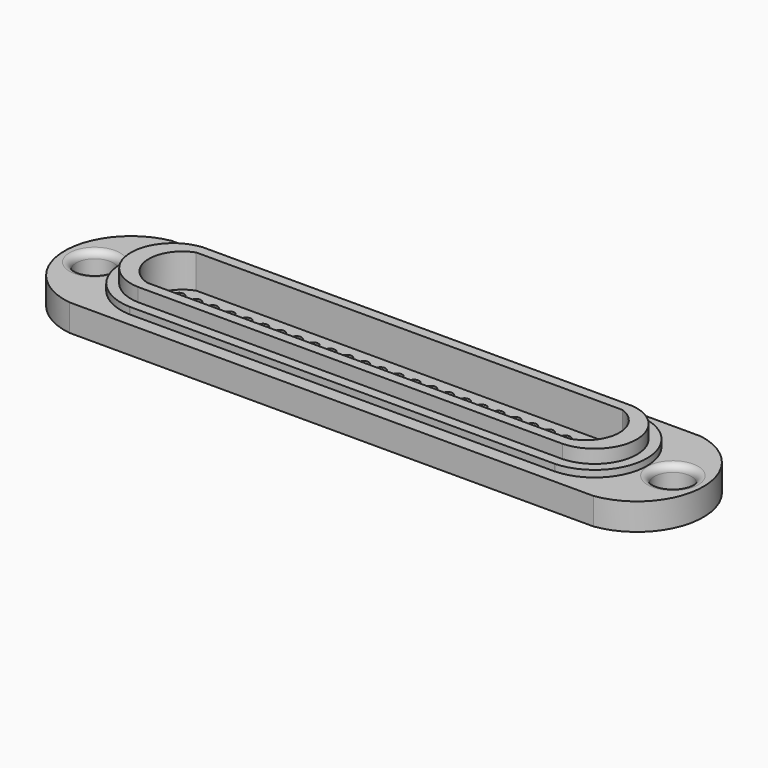
from build123d import *

# Parameters (mm, degrees)
F0_R     = 2.75
F1_DEPTH = 4
F2_DEPTH = 5
F3_DEPTH = 7
F4_DEPTH = 2
F5_R     = 0.75
F5_R_2   = 0.7
F6_DEPTH = 25
F7_R     = 1


with BuildPart() as f1:
    # F0 (on Top) → F1 (new body)
    with BuildSketch(Plane.XY):
        with BuildLine():
            Line((-38.977494, -9.75), (0, -9.75))
            Line((0, -9.75), (38.977494, -9.75))
            ThreePointArc((38.977494, -9.75), (47.498043, -0.167837), (39.370675, 9.75))
            Line((39.370675, 9.75), (0, 9.75))
            Line((0, 9.75), (-39.370675, 9.75))
            ThreePointArc((-39.370675, 9.75), (-47.498043, -0.167837), (-38.977494, -9.75))
        make_face()
        with Locations((-43, 0)):
            Circle(F0_R, mode=Mode.SUBTRACT)
        with BuildLine():
            ThreePointArc((-31.644462, -7.748965), (-39.122501, -0.217996), (-32.104186, 7.743147))
            Line((-32.104186, 7.743147), (-31.961884, 7.75))
            Line((-31.961884, 7.75), (0, 7.75))
            Line((0, 7.75), (31.961884, 7.75))
            Line((31.961884, 7.75), (32.104186, 7.743147))
            ThreePointArc((32.104186, 7.743147), (39.122501, -0.217996), (31.644462, -7.748965))
            Line((31.644462, -7.748965), (31.587565, -7.75))
            Line((31.587565, -7.75), (0.328864, -7.75))
            Line((0.328864, -7.75), (-0.328864, -7.75))
            Line((-0.328864, -7.75), (-31.587565, -7.75))
            Line((-31.587565, -7.75), (-31.644462, -7.748965))
        make_face(mode=Mode.SUBTRACT)
        with Locations((43, 0)):
            Circle(F0_R, mode=Mode.SUBTRACT)
    extrude(amount=F1_DEPTH)

    # F0 (on Top) → F2 (join)
    with BuildSketch(Plane.XY):
        with BuildLine():
            Line((-31.961884, 7.75), (-32.104186, 7.743147))
            ThreePointArc((-32.104186, 7.743147), (-39.122501, -0.217996), (-31.644462, -7.748965))
            Line((-31.644462, -7.748965), (-31.587565, -7.75))
            Line((-31.587565, -7.75), (-0.328864, -7.75))
            Line((-0.328864, -7.75), (0.328864, -7.75))
            Line((0.328864, -7.75), (31.587565, -7.75))
            Line((31.587565, -7.75), (31.644462, -7.748965))
            ThreePointArc((31.644462, -7.748965), (39.122501, -0.217996), (32.104186, 7.743147))
            Line((32.104186, 7.743147), (31.961884, 7.75))
            Line((31.961884, 7.75), (0, 7.75))
            Line((0, 7.75), (-31.961884, 7.75))
        make_face()
        with BuildLine():
            Line((31.587565, -6.25), (-0.328864, -6.25))
            Line((-0.328864, -6.25), (-5.279422, -6.25))
            Line((-5.279422, -6.25), (-31.588749, -6.25))
            ThreePointArc((-31.588749, -6.25), (-37.623142, -0.174144), (-31.960962, 6.25))
            Line((-31.960962, 6.25), (0, 6.25))
            Line((0, 6.25), (31.961884, 6.25))
            ThreePointArc((31.961884, 6.25), (37.62311, -0.175133), (31.587565, -6.25))
        make_face(mode=Mode.SUBTRACT)
    extrude(amount=F2_DEPTH)

    # F0 (on Top) → F3 (join)
    with BuildSketch(Plane.XY):
        with BuildLine():
            Line((-5.279422, -6.25), (-0.328864, -6.25))
            Line((-0.328864, -6.25), (31.587565, -6.25))
            ThreePointArc((31.587565, -6.25), (37.62311, -0.175133), (31.961884, 6.25))
            Line((31.961884, 6.25), (0, 6.25))
            Line((0, 6.25), (-31.960962, 6.25))
            ThreePointArc((-31.960962, 6.25), (-37.623142, -0.174144), (-31.588749, -6.25))
            Line((-31.588749, -6.25), (-5.279422, -6.25))
        make_face()
        with BuildLine():
            Line((31.389172, -4.75), (-0.328864, -4.75))
            Line((-0.328864, -4.75), (-5.279422, -4.75))
            Line((-5.279422, -4.75), (-31.389172, -4.75))
            ThreePointArc((-31.389172, -4.75), (-34.997071, -0.117987), (-31.714512, 4.75))
            Line((-31.714512, 4.75), (0, 4.75))
            Line((0, 4.75), (31.714512, 4.75))
            ThreePointArc((31.714512, 4.75), (34.997071, -0.117987), (31.389172, -4.75))
        make_face(mode=Mode.SUBTRACT)
    extrude(amount=F3_DEPTH)

    # F0 (on Top) → F4 (join)
    with BuildSketch(Plane.XY):
        with BuildLine():
            Line((-5.279422, -4.75), (-0.328864, -4.75))
            Line((-0.328864, -4.75), (31.389172, -4.75))
            ThreePointArc((31.389172, -4.75), (34.997071, -0.117987), (31.714512, 4.75))
            Line((31.714512, 4.75), (0, 4.75))
            Line((0, 4.75), (-31.714512, 4.75))
            ThreePointArc((-31.714512, 4.75), (-34.997071, -0.117987), (-31.389172, -4.75))
            Line((-31.389172, -4.75), (-5.279422, -4.75))
        make_face()
    extrude(amount=F4_DEPTH)

    # F5 (on face) → F6 (cut)
    with BuildSketch(Plane.XY.offset(2)):
        with BuildLine():
            ThreePointArc((0, 0.75), (-0.75, 0), (0, -0.75))
            ThreePointArc((0, -0.75), (0.75, 0), (0, 0.75))
        make_face()
        with BuildLine():
            ThreePointArc((0, 3.25), (-0.75, 2.5), (0, 1.75))
            ThreePointArc((0, 1.75), (0.75, 2.5), (0, 3.25))
        make_face()
        with Locations((2.5, 0)):
            Circle(F5_R)
        with Locations((2.5, 2.5)):
            Circle(F5_R)
        with Locations((5, 0)):
            Circle(F5_R)
        with Locations((5, 2.5)):
            Circle(F5_R)
        with Locations((7.5, 0)):
            Circle(F5_R)
        with Locations((7.5, 2.5)):
            Circle(F5_R)
        with Locations((10, 0)):
            Circle(F5_R)
        with Locations((10, 2.5)):
            Circle(F5_R)
        with Locations((12.5, 0)):
            Circle(F5_R)
        with Locations((12.5, 2.5)):
            Circle(F5_R)
        with Locations((15, 0)):
            Circle(F5_R)
        with Locations((15, 2.5)):
            Circle(F5_R)
        with Locations((17.5, 0)):
            Circle(F5_R)
        with Locations((17.5, 2.5)):
            Circle(F5_R)
        with Locations((20, 0)):
            Circle(F5_R)
        with Locations((20, 2.5)):
            Circle(F5_R)
        with Locations((22.5, 0)):
            Circle(F5_R)
        with Locations((22.5, 2.5)):
            Circle(F5_R)
        with Locations((25, 0)):
            Circle(F5_R)
        with Locations((25, 2.5)):
            Circle(F5_R)
        with Locations((27.5, 0)):
            Circle(F5_R)
        with Locations((27.5, 2.5)):
            Circle(F5_R)
        with Locations((2.5, -2.5)):
            Circle(F5_R)
        with Locations((5, -2.5)):
            Circle(F5_R)
        with Locations((7.5, -2.5)):
            Circle(F5_R)
        with Locations((10, -2.5)):
            Circle(F5_R)
        with Locations((12.5, -2.5)):
            Circle(F5_R)
        with Locations((15, -2.5)):
            Circle(F5_R)
        with Locations((17.5, -2.5)):
            Circle(F5_R)
        with Locations((20, -2.5)):
            Circle(F5_R)
        with Locations((22.5, -2.5)):
            Circle(F5_R)
        with Locations((25, -2.5)):
            Circle(F5_R)
        with Locations((27.5, -2.5)):
            Circle(F5_R)
        with Locations((-12.5, 0)):
            Circle(F5_R)
        with Locations((-17.5, 0)):
            Circle(F5_R)
        with Locations((-7.5, 0)):
            Circle(F5_R)
        with Locations((-5, 0)):
            Circle(F5_R)
        with Locations((-15, 0)):
            Circle(F5_R)
        with Locations((-20, 0)):
            Circle(F5_R)
        with Locations((-10, 0)):
            Circle(F5_R)
        with Locations((-12.5, 2.5)):
            Circle(F5_R)
        with Locations((-10, 2.5)):
            Circle(F5_R)
        with Locations((-7.5, 2.5)):
            Circle(F5_R)
        with Locations((-5, 2.5)):
            Circle(F5_R)
        with Locations((-2.5, 0)):
            Circle(F5_R)
        with Locations((-2.5, 2.5)):
            Circle(F5_R)
        with Locations((-17.5, 2.5)):
            Circle(F5_R)
        with Locations((-15, 2.5)):
            Circle(F5_R)
        with Locations((-20, 2.5)):
            Circle(F5_R)
        with Locations((-27.5, 0)):
            Circle(F5_R)
        with Locations((-22.5, 0)):
            Circle(F5_R)
        with Locations((-25, 0)):
            Circle(F5_R)
        with Locations((-27.5, -2.5)):
            Circle(F5_R)
        with Locations((-25, 2.5)):
            Circle(F5_R)
        with Locations((-22.5, 2.5)):
            Circle(F5_R)
        with Locations((-17.5, -2.5)):
            Circle(F5_R)
        with Locations((-27.5, 2.5)):
            Circle(F5_R)
        with Locations((-20, -2.5)):
            Circle(F5_R)
        with Locations((-22.5, -2.5)):
            Circle(F5_R)
        with Locations((-25, -2.5)):
            Circle(F5_R)
        with Locations((-2.5, -2.5)):
            Circle(F5_R)
        with Locations((-5, -2.5)):
            Circle(F5_R)
        with Locations((-7.5, -2.5)):
            Circle(F5_R)
        with Locations((-10, -2.5)):
            Circle(F5_R)
        with Locations((-12.5, -2.5)):
            Circle(F5_R)
        with Locations((-15, -2.5)):
            Circle(F5_R)
        with Locations((0.020794, -2.485011)):
            Circle(F5_R_2)
        with Locations((-29.956931, 0.036661)):
            Circle(F5_R)
        with Locations((29.956931, 0.036661)):
            Circle(F5_R)
        with Locations((29.949998, 2.5)):
            Circle(F5_R)
        with Locations((32.449998, 2.5)):
            Circle(F5_R)
        with Locations((29.949998, -2.5)):
            Circle(F5_R)
        with Locations((32.449998, 0)):
            Circle(F5_R)
        with Locations((32.449998, -2.5)):
            Circle(F5_R)
        with Locations((-32.466013, 0.00955)):
            Circle(F5_R)
        with Locations((-32.466013, -2.49045)):
            Circle(F5_R)
        with Locations((-29.966013, 2.50955)):
            Circle(F5_R)
        with Locations((-32.466013, 2.50955)):
            Circle(F5_R)
        with Locations((-29.966013, -2.49045)):
            Circle(F5_R)
    extrude(amount=-F6_DEPTH, mode=Mode.SUBTRACT)

    # F7
    f7_edges = [f1.edges().sort_by_distance(p)[0] for p in [
        (-45.75, 0, 4),
        (40.25, 0, 4),
    ]]
    fillet(f7_edges, radius=F7_R)


solid = f1.part
